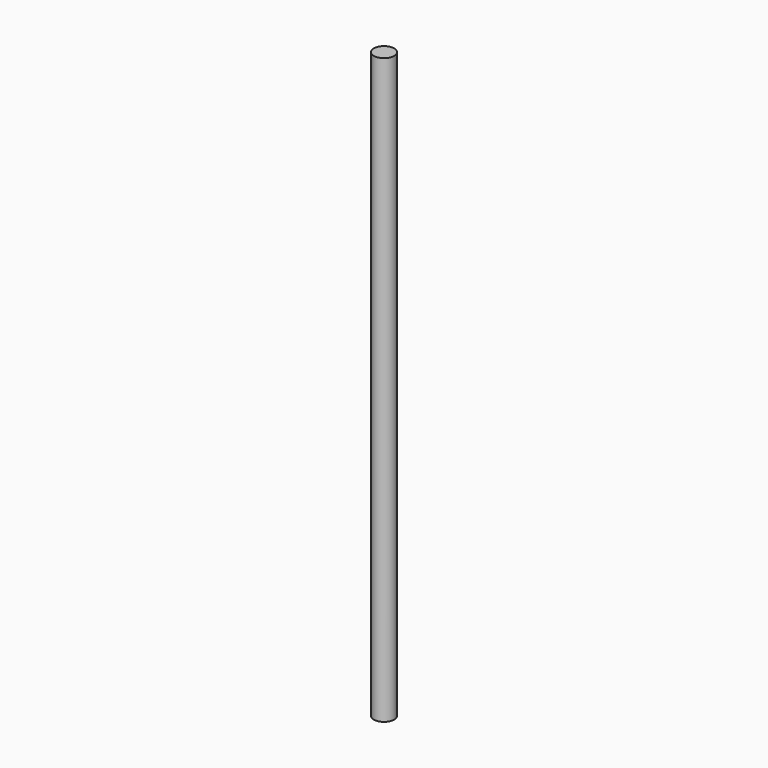
from build123d import *

# Parameters (mm, degrees)
SKETCH_R  = 0.875
PAD_DEPTH = 50


with BuildPart() as part:
    # Sketch → Pad (new body)
    with BuildSketch(Plane.XY):
        Circle(SKETCH_R)
    extrude(amount=PAD_DEPTH)


solid = part.part
